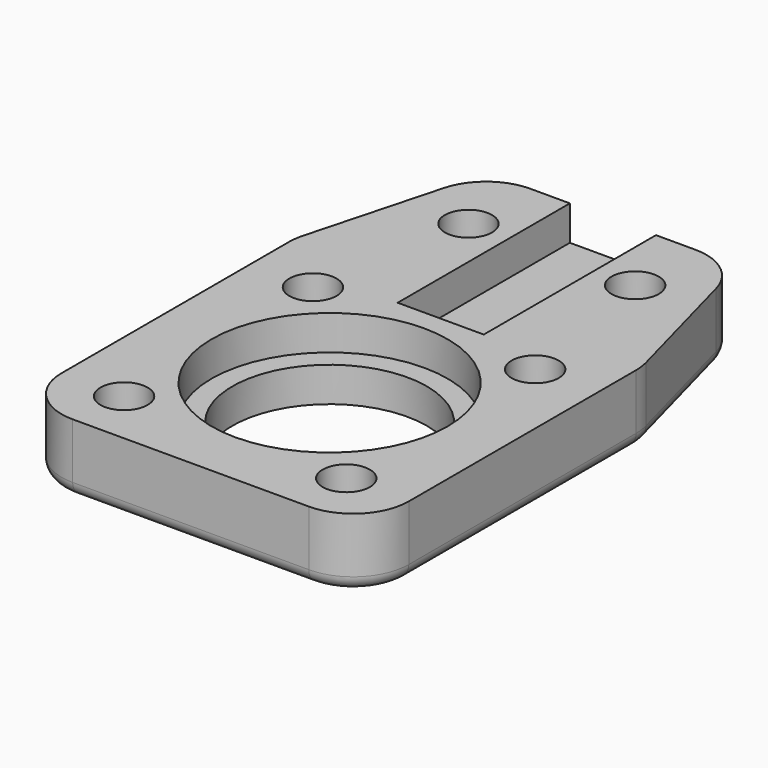
from build123d import *

# Parameters (mm, degrees)
SKETCH_R        = 7
SKETCH_R_2      = 1.7
PAD_DEPTH       = 5
SKETCH001_R     = 8.5
SKETCH001_W     = 6.2
SKETCH001_H     = 20
POCKET_DEPTH    = 2.5
FILLET_R        = 4
FILLET001_R     = 4
FILLET002_R     = 4
FILLET003_R     = 4
FILLET004_R     = 4
FILLET005_R     = 4
FILLET006_R     = 1
CHAMFER_SIZE    = 1.5
CHAMFER001_SIZE = 1.5
CHAMFER002_SIZE = 1.5
CHAMFER003_SIZE = 1.5
CHAMFER004_SIZE = 1.5
CHAMFER005_SIZE = 1.7


with BuildPart() as part:
    # Sketch → Pad (new body)
    with BuildSketch(Plane.XY):
        Polygon((-12.5, -12.5), (12.5, -12.5), (12.5, 12.5), (9, 25.5), (-9, 25.5), (-12.5, 12.5), align=None)
        Circle(SKETCH_R, mode=Mode.SUBTRACT)
        with Locations((-8, 8.5)):
            Circle(SKETCH_R_2, mode=Mode.SUBTRACT)
        with Locations((8, 8.5)):
            Circle(SKETCH_R_2, mode=Mode.SUBTRACT)
        with Locations((-8, -8.5)):
            Circle(SKETCH_R_2, mode=Mode.SUBTRACT)
        with Locations((8, -8.5)):
            Circle(SKETCH_R_2, mode=Mode.SUBTRACT)
        with Locations((-6, 20)):
            Circle(SKETCH_R_2, mode=Mode.SUBTRACT)
        with Locations((6, 20)):
            Circle(SKETCH_R_2, mode=Mode.SUBTRACT)
    extrude(amount=PAD_DEPTH)

    # Sketch001 → Pocket (cut)
    with BuildSketch(Plane.XY.offset(5)):
        Circle(SKETCH001_R)
        with Locations((0, 20)):
            Rectangle(SKETCH001_W, SKETCH001_H)
    extrude(amount=-POCKET_DEPTH, mode=Mode.SUBTRACT)

    # Fillet
    fillet_edges = [part.edges().sort_by_distance(p)[0] for p in [
        (-12.5, -12.5, 2.5),
    ]]
    fillet(fillet_edges, radius=FILLET_R)

    # Fillet001
    fillet001_edges = [part.edges().sort_by_distance(p)[0] for p in [
        (12.5, -12.5, 2.5),
    ]]
    fillet(fillet001_edges, radius=FILLET001_R)

    # Fillet002
    fillet002_edges = [part.edges().sort_by_distance(p)[0] for p in [
        (-12.5, 12.5, 2.5),
    ]]
    fillet(fillet002_edges, radius=FILLET002_R)

    # Fillet003
    fillet003_edges = [part.edges().sort_by_distance(p)[0] for p in [
        (12.5, 12.5, 2.5),
    ]]
    fillet(fillet003_edges, radius=FILLET003_R)

    # Fillet004
    fillet004_edges = [part.edges().sort_by_distance(p)[0] for p in [
        (9, 25.5, 2.5),
    ]]
    fillet(fillet004_edges, radius=FILLET004_R)

    # Fillet005
    fillet005_edges = [part.edges().sort_by_distance(p)[0] for p in [
        (-9, 25.5, 2.5),
    ]]
    fillet(fillet005_edges, radius=FILLET005_R)

    # Fillet006
    fillet006_edges = [part.edges().sort_by_distance(p)[0] for p in [
        (0, 25.5, 0),
    ]]
    fillet(fillet006_edges, radius=FILLET006_R)

    # Chamfer
    chamfer_edges = [part.edges().sort_by_distance(p)[0] for p in [
        (-9.7, -8.5, 0),
    ]]
    chamfer(chamfer_edges, length=CHAMFER_SIZE)

    # Chamfer001
    chamfer001_edges = [part.edges().sort_by_distance(p)[0] for p in [
        (-9.7, 8.5, 0),
    ]]
    chamfer(chamfer001_edges, length=CHAMFER001_SIZE)

    # Chamfer002
    chamfer002_edges = [part.edges().sort_by_distance(p)[0] for p in [
        (6.3, -8.5, 0),
    ]]
    chamfer(chamfer002_edges, length=CHAMFER002_SIZE)

    # Chamfer003
    chamfer003_edges = [part.edges().sort_by_distance(p)[0] for p in [
        (6.3, 8.5, 0),
    ]]
    chamfer(chamfer003_edges, length=CHAMFER003_SIZE)

    # Chamfer004
    chamfer004_edges = [part.edges().sort_by_distance(p)[0] for p in [
        (-7.7, 20, 0),
    ]]
    chamfer(chamfer004_edges, length=CHAMFER004_SIZE)

    # Chamfer005
    chamfer005_edges = [part.edges().sort_by_distance(p)[0] for p in [
        (4.3, 20, 0),
    ]]
    chamfer(chamfer005_edges, length=CHAMFER005_SIZE)


solid = part.part
